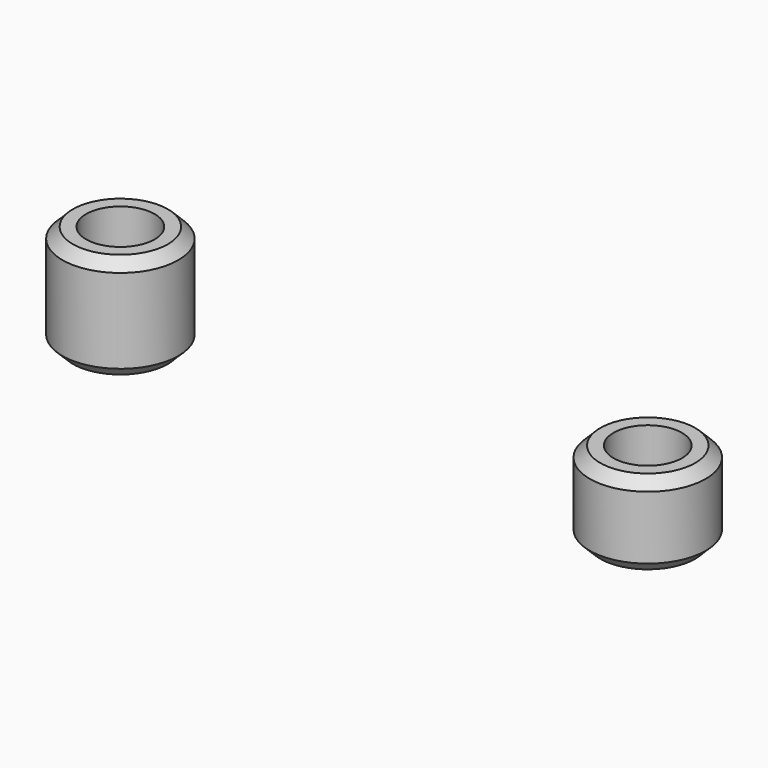
from build123d import *

# Parameters (mm, degrees)
F0_R      = 2.75
F0_R_2    = 1.625
F1_DEPTH  = 5
F2_DEPTH  = 4
F3_SIZE   = 0.5
F3_2_SIZE = 0.5


with BuildPart() as f1:
    # F0 (on Top) → F1 (new body)
    with BuildSketch(Plane.XY):
        Circle(F0_R)
        Circle(F0_R_2, mode=Mode.SUBTRACT)
    extrude(amount=F1_DEPTH)

    # F3
    f3_edges = [f1.edges().sort_by_distance(p)[0] for p in [
        (-2.75, 0, 5),
        (-2.75, 0, 0),
    ]]
    chamfer(f3_edges, length=F3_SIZE)


with BuildPart() as f2:
    # F0 (on Top) → F2 (new body)
    with BuildSketch(Plane.XY):
        with Locations((25, 0)):
            Circle(F0_R)
        with Locations((25, 0)):
            Circle(F0_R_2, mode=Mode.SUBTRACT)
    extrude(amount=F2_DEPTH)

    # F3#2
    f3_2_edges = [f2.edges().sort_by_distance(p)[0] for p in [
        (22.25, 0, 0),
        (22.25, 0, 4),
    ]]
    chamfer(f3_2_edges, length=F3_2_SIZE)


solid = Compound([f1.part, f2.part])
